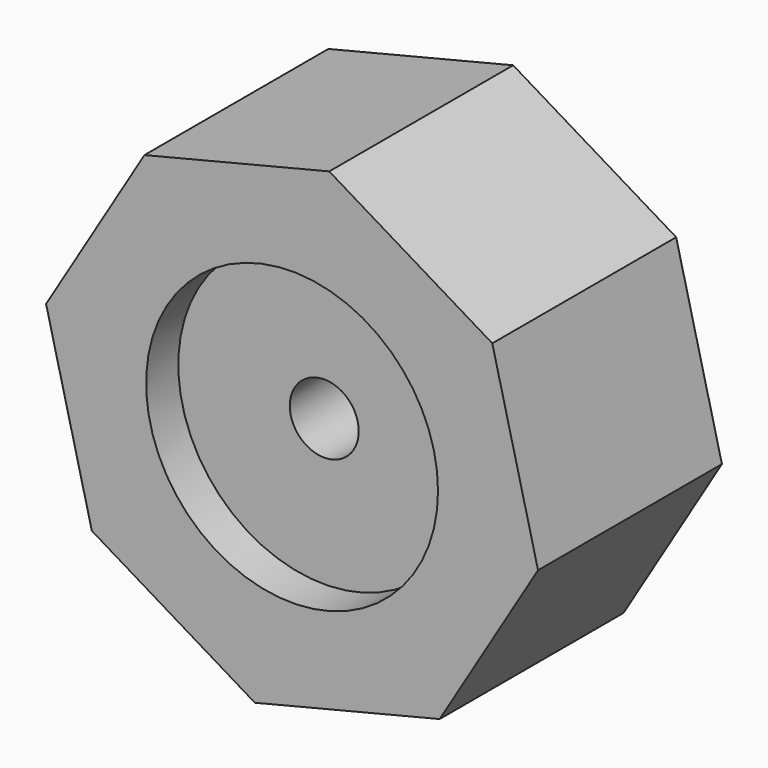
from build123d import *

# Parameters (mm, degrees)
F1_DEPTH = 20
F2_R     = 12.7
F3_DEPTH = 3.5
F5_D     = 6


with BuildPart() as f1:
    # F0 (on Front) → F1 (new body)
    with BuildSketch(Plane.XZ):
        Polygon((17.424202, 12.846258), (3.237095, 21.404447), (-12.846258, 17.424202), (-21.404447, 3.237095), (-17.424202, -12.846258), (-3.237095, -21.404447), (12.846258, -17.424202), (21.404447, -3.237095), align=None)
    extrude(amount=F1_DEPTH)

    # F2 (on face) → F3 (cut)
    with BuildSketch(Plane.XZ.offset(20)):
        Circle(F2_R)
    extrude(amount=-F3_DEPTH, mode=Mode.SUBTRACT)

    # F5 (through all)
    with Locations(Plane.XZ.offset(16.5)):
        with Locations((0, 0)):
            Hole(F5_D / 2)


solid = f1.part
